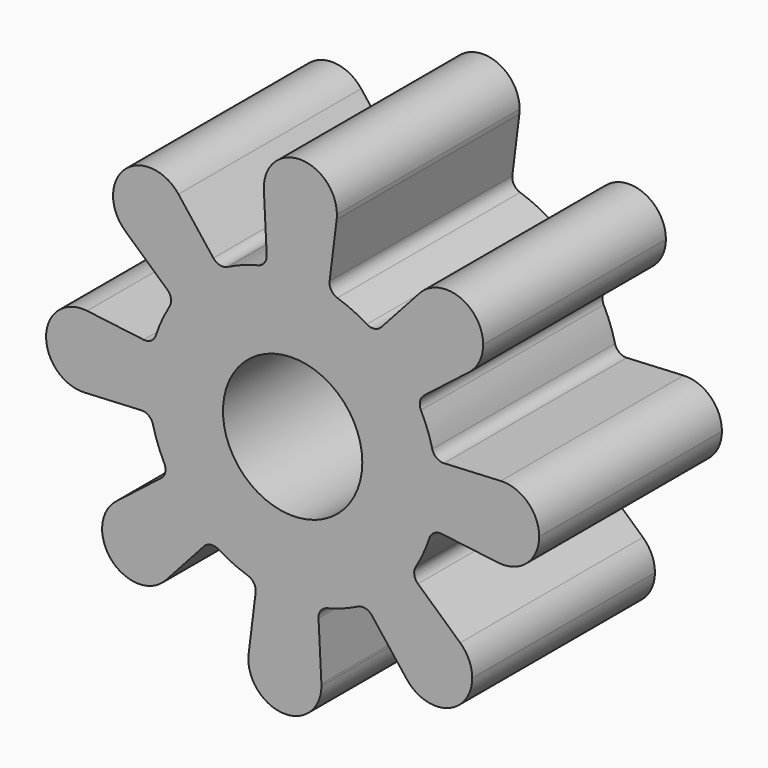
from build123d import *

# Parameters (mm, degrees)
F0_R     = 3.05
F1_DEPTH = 10


with BuildPart() as f1:
    # F0 (on Front) → F1 (new body)
    with BuildSketch(Plane.XZ):
        with BuildLine():
            ThreePointArc((5.987557, -1.959377), (6.221399, -0.992066), (6.3, 0))
            ThreePointArc((6.3, 0), (6.25371, 0.762306), (6.115521, 1.513409))
            ThreePointArc((6.115521, 1.513409), (5.905269, 2.194948), (5.619331, 2.848354))
            ThreePointArc((5.619331, 2.848354), (4.615787, 4.287716), (3.254184, 5.394468))
            ThreePointArc((3.254184, 5.394468), (2.623594, 5.727718), (1.959377, 5.987557))
            ThreePointArc((1.959377, 5.987557), (0.231982, 6.295727), (-1.513409, 6.115521))
            ThreePointArc((-1.513409, 6.115521), (-2.194948, 5.905269), (-2.848354, 5.619331))
            ThreePointArc((-2.848354, 5.619331), (-4.287716, 4.615787), (-5.394468, 3.254184))
            ThreePointArc((-5.394468, 3.254184), (-5.727718, 2.623594), (-5.987557, 1.959377))
            ThreePointArc((-5.987557, 1.959377), (-6.295727, 0.231982), (-6.115521, -1.513409))
            ThreePointArc((-6.115521, -1.513409), (-5.905269, -2.194948), (-5.619331, -2.848354))
            ThreePointArc((-5.619331, -2.848354), (-4.615787, -4.287716), (-3.254184, -5.394468))
            ThreePointArc((-3.254184, -5.394468), (-2.623594, -5.727718), (-1.959377, -5.987557))
            ThreePointArc((-1.959377, -5.987557), (-0.231982, -6.295727), (1.513409, -6.115521))
            ThreePointArc((1.513409, -6.115521), (2.194948, -5.905269), (2.848354, -5.619331))
            ThreePointArc((2.848354, -5.619331), (4.287716, -4.615787), (5.394468, -3.254184))
            ThreePointArc((5.394468, -3.254184), (5.727718, -2.623594), (5.987557, -1.959377))
        make_face()
        Circle(F0_R, mode=Mode.SUBTRACT)
        with BuildLine():
            ThreePointArc((6.115521, 1.513409), (6.25371, 0.762306), (6.3, 0))
            ThreePointArc((6.3, 0), (6.221399, -0.992066), (5.987557, -1.959377))
            ThreePointArc((5.987557, -1.959377), (6.194917, -1.692674), (6.524551, -1.618716))
            Line((6.524551, -1.618716), (8.996032, -1.926502))
            ThreePointArc((8.996032, -1.926502), (7.594846, -0.279851), (9.113417, 1.259215))
            Line((9.113417, 1.259215), (6.625987, 1.134152))
            ThreePointArc((6.625987, 1.134152), (6.30269, 1.232169), (6.115521, 1.513409))
        make_face()
        with BuildLine():
            ThreePointArc((3.254184, 5.394468), (4.615787, 4.287716), (5.619331, 2.848354))
            ThreePointArc((5.619331, 2.848354), (5.577369, 3.183566), (5.758159, 3.468949))
            Line((5.758159, 3.468949), (7.723398, 4.998913))
            ThreePointArc((7.723398, 4.998913), (5.568251, 5.172483), (5.55376, 7.334559))
            Line((5.55376, 7.334559), (3.883314, 5.487247))
            ThreePointArc((3.883314, 5.487247), (3.585399, 5.32795), (3.254184, 5.394468))
        make_face()
        with BuildLine():
            ThreePointArc((5.487247, -3.883314), (5.32795, -3.585399), (5.394468, -3.254184))
            ThreePointArc((5.394468, -3.254184), (4.287716, -4.615787), (2.848354, -5.619331))
            ThreePointArc((2.848354, -5.619331), (3.183566, -5.577369), (3.468949, -5.758159))
            Line((3.468949, -5.758159), (4.998913, -7.723398))
            ThreePointArc((4.998913, -7.723398), (5.172483, -5.568251), (7.334559, -5.55376))
            Line((7.334559, -5.55376), (5.487247, -3.883314))
        make_face()
        with BuildLine():
            ThreePointArc((10.793761, -0.338767), (10.29636, 0.820662), (9.113417, 1.259215))
            ThreePointArc((9.113417, 1.259215), (7.594846, -0.279851), (8.996032, -1.926502))
            ThreePointArc((8.996032, -1.926502), (10.252919, -1.538009), (10.793761, -0.338767))
        make_face()
        with BuildLine():
            ThreePointArc((-1.513409, 6.115521), (0.231982, 6.295727), (1.959377, 5.987557))
            ThreePointArc((1.959377, 5.987557), (1.692674, 6.194917), (1.618716, 6.524551))
            Line((1.618716, 6.524551), (1.926502, 8.996032))
            ThreePointArc((1.926502, 8.996032), (0.279851, 7.594846), (-1.259215, 9.113417))
            Line((-1.259215, 9.113417), (-1.134152, 6.625987))
            ThreePointArc((-1.134152, 6.625987), (-1.232169, 6.30269), (-1.513409, 6.115521))
        make_face()
        with BuildLine():
            ThreePointArc((5.55376, 7.334559), (5.568251, 5.172483), (7.723398, 4.998913))
            ThreePointArc((7.723398, 4.998913), (8.17798, 5.558793), (8.340515, 6.261426))
            ThreePointArc((8.340515, 6.261426), (7.31549, 7.754545), (5.55376, 7.334559))
        make_face()
        with BuildLine():
            ThreePointArc((1.134152, -6.625987), (1.232169, -6.30269), (1.513409, -6.115521))
            ThreePointArc((1.513409, -6.115521), (-0.231982, -6.295727), (-1.959377, -5.987557))
            ThreePointArc((-1.959377, -5.987557), (-1.692674, -6.194917), (-1.618716, -6.524551))
            Line((-1.618716, -6.524551), (-1.926502, -8.996032))
            ThreePointArc((-1.926502, -8.996032), (-0.279851, -7.594846), (1.259215, -9.113417))
            Line((1.259215, -9.113417), (1.134152, -6.625987))
        make_face()
        with BuildLine():
            ThreePointArc((7.861426, -6.740515), (7.723789, -6.091289), (7.334559, -5.55376))
            ThreePointArc((7.334559, -5.55376), (5.172483, -5.568251), (4.998913, -7.723398))
            ThreePointArc((4.998913, -7.723398), (6.781031, -8.253793), (7.861426, -6.740515))
        make_face()
        with BuildLine():
            ThreePointArc((-5.394468, 3.254184), (-4.287716, 4.615787), (-2.848354, 5.619331))
            ThreePointArc((-2.848354, 5.619331), (-3.183566, 5.577369), (-3.468949, 5.758159))
            Line((-3.468949, 5.758159), (-4.998913, 7.723398))
            ThreePointArc((-4.998913, 7.723398), (-4.748148, 7.260119), (-4.661426, 6.740515))
            ThreePointArc((-4.661426, 6.740515), (-5.612201, 5.278152), (-7.334559, 5.55376))
            Line((-7.334559, 5.55376), (-5.487247, 3.883314))
            ThreePointArc((-5.487247, 3.883314), (-5.32795, 3.585399), (-5.394468, 3.254184))
        make_face()
        with BuildLine():
            ThreePointArc((-1.259215, 9.113417), (0.279851, 7.594846), (1.926502, 8.996032))
            ThreePointArc((1.926502, 8.996032), (1.935698, 9.094706), (1.938767, 9.193761))
            ThreePointArc((1.938767, 9.193761), (0.298582, 10.793256), (-1.259215, 9.113417))
        make_face()
        with BuildLine():
            ThreePointArc((-3.883314, -5.487247), (-3.585399, -5.32795), (-3.254184, -5.394468))
            ThreePointArc((-3.254184, -5.394468), (-4.615787, -4.287716), (-5.619331, -2.848354))
            ThreePointArc((-5.619331, -2.848354), (-5.577369, -3.183566), (-5.758159, -3.468949))
            Line((-5.758159, -3.468949), (-7.723398, -4.998913))
            ThreePointArc((-7.723398, -4.998913), (-6.037881, -4.823961), (-5.140515, -6.261426))
            ThreePointArc((-5.140515, -6.261426), (-5.247396, -6.836401), (-5.55376, -7.334559))
            Line((-5.55376, -7.334559), (-3.883314, -5.487247))
        make_face()
        with BuildLine():
            ThreePointArc((1.261233, -9.193761), (1.260729, -9.153576), (1.259215, -9.113417))
            ThreePointArc((1.259215, -9.113417), (-0.279851, -7.594846), (-1.926502, -8.996032))
            ThreePointArc((-1.926502, -8.996032), (-0.437821, -10.790692), (1.261233, -9.193761))
        make_face()
        with BuildLine():
            ThreePointArc((-6.115521, -1.513409), (-6.295727, 0.231982), (-5.987557, 1.959377))
            ThreePointArc((-5.987557, 1.959377), (-6.194917, 1.692674), (-6.524551, 1.618716))
            Line((-6.524551, 1.618716), (-8.996032, 1.926502))
            ThreePointArc((-8.996032, 1.926502), (-7.994518, 1.397925), (-7.593761, 0.338767))
            ThreePointArc((-7.593761, 0.338767), (-8.034332, -0.763833), (-9.113417, -1.259215))
            Line((-9.113417, -1.259215), (-6.625987, -1.134152))
            ThreePointArc((-6.625987, -1.134152), (-6.30269, -1.232169), (-6.115521, -1.513409))
        make_face()
        with BuildLine():
            ThreePointArc((-4.661426, 6.740515), (-4.748148, 7.260119), (-4.998913, 7.723398))
            ThreePointArc((-4.998913, 7.723398), (-7.35037, 7.912778), (-7.334559, 5.55376))
            ThreePointArc((-7.334559, 5.55376), (-5.612201, 5.278152), (-4.661426, 6.740515))
        make_face()
        with BuildLine():
            ThreePointArc((-7.723398, -4.998913), (-7.912778, -7.35037), (-5.55376, -7.334559))
            ThreePointArc((-5.55376, -7.334559), (-5.247396, -6.836401), (-5.140515, -6.261426))
            ThreePointArc((-5.140515, -6.261426), (-6.037881, -4.823961), (-7.723398, -4.998913))
        make_face()
        with BuildLine():
            ThreePointArc((-7.593761, 0.338767), (-7.994518, 1.397925), (-8.996032, 1.926502))
            ThreePointArc((-8.996032, 1.926502), (-10.792676, 0.397683), (-9.113417, -1.259215))
            ThreePointArc((-9.113417, -1.259215), (-8.034332, -0.763833), (-7.593761, 0.338767))
        make_face()
    extrude(amount=F1_DEPTH)


solid = f1.part
